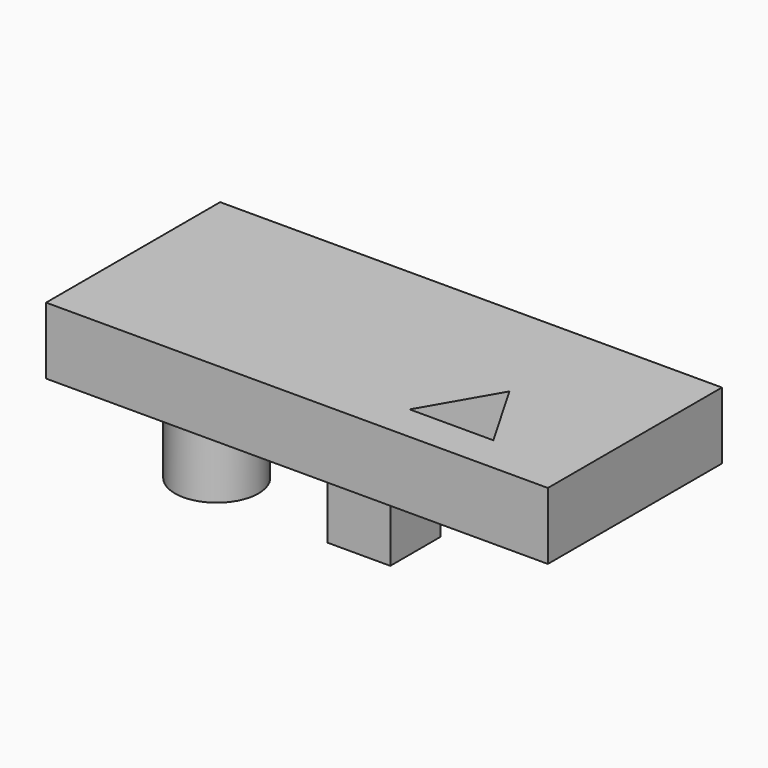
from build123d import *

# Parameters (mm, degrees)
F0_W     = 152.4
F0_H     = 66.074036
F0_R     = 12.7
F1_DEPTH = 20.32
F2_DEPTH = 52.07


with BuildPart() as f1:
    # F0 (on Top) → F1 (new body)
    with BuildSketch(Plane.XY):
        with Locations((-31.75, 0)):
            Rectangle(F0_W, F0_H)
        Polygon((-6.35, -21.997045), (6.35, 0), (19.05, -21.997045), align=None, mode=Mode.SUBTRACT)
        with Locations((-82.55, 0)):
            Circle(F0_R, mode=Mode.SUBTRACT)
        Polygon((-22.225, 9.525), (-22.225, 0), (-22.225, -9.525), (-41.275, -9.525), (-41.275, 0), (-41.275, 9.525), align=None, mode=Mode.SUBTRACT)
    extrude(amount=-F1_DEPTH)

    # F0 (on Top) → F2 (join)
    with BuildSketch(Plane.XY):
        Polygon((-22.225, -9.525), (-22.225, 0), (-31.75, 0), (-41.275, 0), (-41.275, -9.525), align=None)
        Polygon((-31.75, 0), (-22.225, 0), (-22.225, 9.525), (-41.275, 9.525), (-41.275, 0), align=None)
        with Locations((-82.55, 0)):
            Circle(F0_R)
    extrude(amount=-F2_DEPTH)


solid = f1.part
